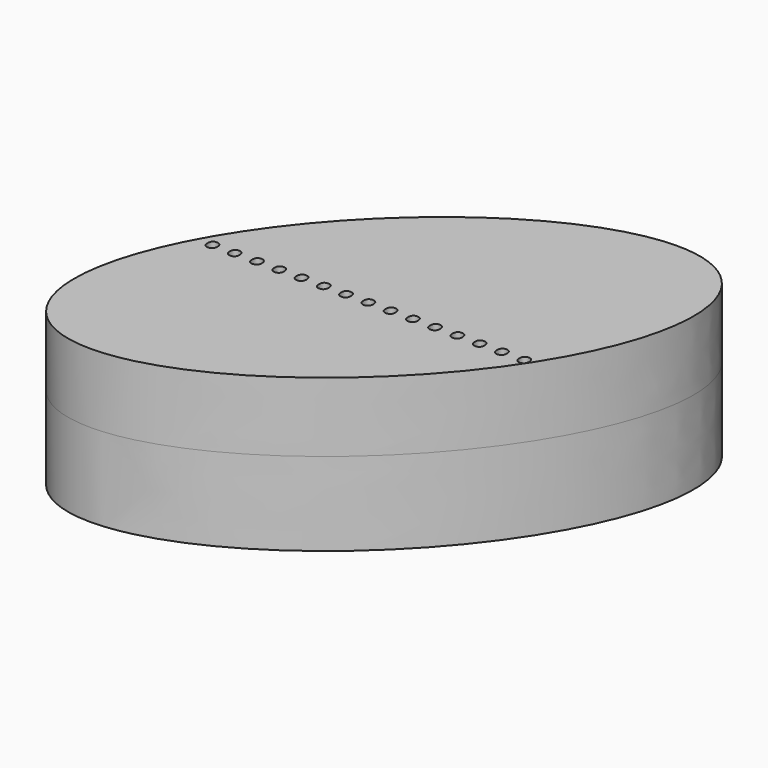
from build123d import *

# Parameters (mm, degrees)
F1_DEPTH = 37.338
F3_DEPTH = 25.4
F6_DEPTH = 30.48
F8_DEPTH = 25.4


with BuildPart() as f1:
    # F0 (on Top) → F1 (new body)
    with BuildSketch(Plane.XY):
        with BuildLine():
            add(Edge.make_bspline(
                [(-58.8609427214, -56.3732944429), (-55.8078593371, -59.5611046992), (30.9570130528, 26.5927420933), (117.7218854427, 112.7465888858), (27.9039296686, 29.7805523496), (-61.9140261056, -53.1854841866), (-58.8609427214, -56.3732944429)],
                knots=[0, 0, 0, 2.0943951024, 2.0943951024, 4.1887902048, 4.1887902048, 6.2831853072, 6.2831853072, 6.2831853072], degree=2, weights=[1, 0.5, 1, 0.5, 1, 0.5, 1]))
        make_face()
    extrude(amount=F1_DEPTH)

    # F2 (on Right) → F3 (join)
    with BuildSketch(Plane.YZ):
        with BuildLine():
            add(Edge.make_bspline(
                [(54.3760545552, 30.9824198484), (34.7760385901, 65.3816547247), (-36.9880352601, 1.7084075139), (-108.7521091104, -61.9648396969), (-17.388019295, -32.6908273623), (73.9760705203, -3.4168150278), (54.3760545552, 30.9824198484)],
                knots=[0, 0, 0, 2.0943951024, 2.0943951024, 4.1887902048, 4.1887902048, 6.2831853072, 6.2831853072, 6.2831853072], degree=2, weights=[1, 0.5, 1, 0.5, 1, 0.5, 1]))
        make_face()
    extrude(amount=-F3_DEPTH)


with BuildPart() as f6:
    # F5 (on Top) → F6 (new body)
    with BuildSketch(Plane.XY):
        with BuildLine():
            add(Edge.make_bspline(
                [(-68.0589303374, -69.3077221513), (-7.824960275, -128.4563919557), (64.1464501999, 5.0795261734), (136.1178606749, 138.6154443026), (3.9124801375, 64.2281959779), (-128.2929003998, -10.1590523469), (-68.0589303374, -69.3077221513)],
                knots=[0, 0, 0, 2.0943951024, 2.0943951024, 4.1887902048, 4.1887902048, 6.2831853072, 6.2831853072, 6.2831853072], degree=2, weights=[1, 0.5, 1, 0.5, 1, 0.5, 1]))
        make_face()
    extrude(amount=F6_DEPTH)

    # F7 (on face) → F8 (join)
    with BuildSketch(Plane.XY.offset(30.48)):
        with BuildLine():
            add(Edge.make_bspline(
                [(-68.0589303374, -69.3077221513), (-7.824960275, -128.4563919557), (64.1464501999, 5.0795261734), (136.1178606749, 138.6154443026), (3.9124801375, 64.2281959779), (-128.2929003998, -10.1590523469), (-68.0589303374, -69.3077221513)],
                knots=[0, 0, 0, 2.0943951024, 2.0943951024, 4.1887902048, 4.1887902048, 6.2831853072, 6.2831853072, 6.2831853072], degree=2, weights=[1, 0.5, 1, 0.5, 1, 0.5, 1]))
        make_face()
        with BuildLine():
            add(Edge.make_bspline(
                [(-59.8730209301, -6.8324282802), (-60.3733400324, -6.3608356334), (-60.3733400324, -5.283593547)],
                knots=[0, 0, 0, 1, 1, 1], degree=2))
            add(Edge.make_bspline(
                [(-60.3733400324, -5.283593547), (-60.3733400324, -4.2781675996), (-59.9161106135, -3.7634852694)],
                knots=[0, 0, 0, 1, 1, 1], degree=2))
            add(Edge.make_bspline(
                [(-59.9161106135, -3.7634852694), (-59.4588811946, -3.2488029392), (-58.6066630106, -3.2488029392)],
                knots=[0, 0, 0, 1, 1, 1], degree=2))
            add(Edge.make_bspline(
                [(-58.6066630106, -3.2488029392), (-57.7400815988, -3.2488029392), (-57.2541257243, -3.7634852694)],
                knots=[0, 0, 0, 1, 1, 1], degree=2))
            add(Edge.make_bspline(
                [(-57.2541257243, -3.7634852694), (-56.7681698497, -4.2781675996), (-56.7681698497, -5.283593547)],
                knots=[0, 0, 0, 1, 1, 1], degree=2))
            add(Edge.make_bspline(
                [(-56.7681698497, -5.283593547), (-56.7681698497, -6.2555052961), (-57.2613073382, -6.7797631115)],
                knots=[0, 0, 0, 1, 1, 1], degree=2))
            add(Edge.make_bspline(
                [(-57.2613073382, -6.7797631115), (-57.7544448267, -7.3040209269), (-58.6066630106, -7.3040209269)],
                knots=[0, 0, 0, 1, 1, 1], degree=2))
            add(Edge.make_bspline(
                [(-58.6066630106, -7.3040209269), (-59.3727018277, -7.3040209269), (-59.8730209301, -6.8324282802)],
                knots=[0, 0, 0, 1, 1, 1], degree=2))
        make_face(mode=Mode.SUBTRACT)
        with BuildLine():
            add(Edge.make_bspline(
                [(-51.7194952711, -6.8324282802), (-52.2198143735, -6.3608356334), (-52.2198143735, -5.283593547)],
                knots=[0, 0, 0, 1, 1, 1], degree=2))
            add(Edge.make_bspline(
                [(-52.2198143735, -5.283593547), (-52.2198143735, -4.2781675996), (-51.7625849546, -3.7634852694)],
                knots=[0, 0, 0, 1, 1, 1], degree=2))
            add(Edge.make_bspline(
                [(-51.7625849546, -3.7634852694), (-51.3053555357, -3.2488029392), (-50.4531373517, -3.2488029392)],
                knots=[0, 0, 0, 1, 1, 1], degree=2))
            add(Edge.make_bspline(
                [(-50.4531373517, -3.2488029392), (-49.5865559399, -3.2488029392), (-49.1006000654, -3.7634852694)],
                knots=[0, 0, 0, 1, 1, 1], degree=2))
            add(Edge.make_bspline(
                [(-49.1006000654, -3.7634852694), (-48.6146441908, -4.2781675996), (-48.6146441908, -5.283593547)],
                knots=[0, 0, 0, 1, 1, 1], degree=2))
            add(Edge.make_bspline(
                [(-48.6146441908, -5.283593547), (-48.6146441908, -6.2555052961), (-49.1077816793, -6.7797631115)],
                knots=[0, 0, 0, 1, 1, 1], degree=2))
            add(Edge.make_bspline(
                [(-49.1077816793, -6.7797631115), (-49.6009191678, -7.3040209269), (-50.4531373517, -7.3040209269)],
                knots=[0, 0, 0, 1, 1, 1], degree=2))
            add(Edge.make_bspline(
                [(-50.4531373517, -7.3040209269), (-51.2191761688, -7.3040209269), (-51.7194952711, -6.8324282802)],
                knots=[0, 0, 0, 1, 1, 1], degree=2))
        make_face(mode=Mode.SUBTRACT)
        with BuildLine():
            add(Edge.make_bspline(
                [(-43.5659696122, -6.8324282802), (-44.0662887146, -6.3608356334), (-44.0662887146, -5.283593547)],
                knots=[0, 0, 0, 1, 1, 1], degree=2))
            add(Edge.make_bspline(
                [(-44.0662887146, -5.283593547), (-44.0662887146, -4.2781675996), (-43.6090592957, -3.7634852694)],
                knots=[0, 0, 0, 1, 1, 1], degree=2))
            add(Edge.make_bspline(
                [(-43.6090592957, -3.7634852694), (-43.1518298768, -3.2488029392), (-42.2996116928, -3.2488029392)],
                knots=[0, 0, 0, 1, 1, 1], degree=2))
            add(Edge.make_bspline(
                [(-42.2996116928, -3.2488029392), (-41.433030281, -3.2488029392), (-40.9470744065, -3.7634852694)],
                knots=[0, 0, 0, 1, 1, 1], degree=2))
            add(Edge.make_bspline(
                [(-40.9470744065, -3.7634852694), (-40.4611185319, -4.2781675996), (-40.4611185319, -5.283593547)],
                knots=[0, 0, 0, 1, 1, 1], degree=2))
            add(Edge.make_bspline(
                [(-40.4611185319, -5.283593547), (-40.4611185319, -6.2555052961), (-40.9542560204, -6.7797631115)],
                knots=[0, 0, 0, 1, 1, 1], degree=2))
            add(Edge.make_bspline(
                [(-40.9542560204, -6.7797631115), (-41.4473935089, -7.3040209269), (-42.2996116928, -7.3040209269)],
                knots=[0, 0, 0, 1, 1, 1], degree=2))
            add(Edge.make_bspline(
                [(-42.2996116928, -7.3040209269), (-43.0656505099, -7.3040209269), (-43.5659696122, -6.8324282802)],
                knots=[0, 0, 0, 1, 1, 1], degree=2))
        make_face(mode=Mode.SUBTRACT)
        with BuildLine():
            add(Edge.make_bspline(
                [(-35.4124439533, -6.8324282802), (-35.9127630557, -6.3608356334), (-35.9127630557, -5.283593547)],
                knots=[0, 0, 0, 1, 1, 1], degree=2))
            add(Edge.make_bspline(
                [(-35.9127630557, -5.283593547), (-35.9127630557, -4.2781675996), (-35.4555336368, -3.7634852694)],
                knots=[0, 0, 0, 1, 1, 1], degree=2))
            add(Edge.make_bspline(
                [(-35.4555336368, -3.7634852694), (-34.9983042179, -3.2488029392), (-34.1460860339, -3.2488029392)],
                knots=[0, 0, 0, 1, 1, 1], degree=2))
            add(Edge.make_bspline(
                [(-34.1460860339, -3.2488029392), (-33.2795046221, -3.2488029392), (-32.7935487476, -3.7634852694)],
                knots=[0, 0, 0, 1, 1, 1], degree=2))
            add(Edge.make_bspline(
                [(-32.7935487476, -3.7634852694), (-32.307592873, -4.2781675996), (-32.307592873, -5.283593547)],
                knots=[0, 0, 0, 1, 1, 1], degree=2))
            add(Edge.make_bspline(
                [(-32.307592873, -5.283593547), (-32.307592873, -6.2555052961), (-32.8007303615, -6.7797631115)],
                knots=[0, 0, 0, 1, 1, 1], degree=2))
            add(Edge.make_bspline(
                [(-32.8007303615, -6.7797631115), (-33.29386785, -7.3040209269), (-34.1460860339, -7.3040209269)],
                knots=[0, 0, 0, 1, 1, 1], degree=2))
            add(Edge.make_bspline(
                [(-34.1460860339, -7.3040209269), (-34.912124851, -7.3040209269), (-35.4124439533, -6.8324282802)],
                knots=[0, 0, 0, 1, 1, 1], degree=2))
        make_face(mode=Mode.SUBTRACT)
        with BuildLine():
            add(Edge.make_bspline(
                [(-27.2589182944, -6.8324282802), (-27.7592373968, -6.3608356334), (-27.7592373968, -5.283593547)],
                knots=[0, 0, 0, 1, 1, 1], degree=2))
            add(Edge.make_bspline(
                [(-27.7592373968, -5.283593547), (-27.7592373968, -4.2781675996), (-27.3020079779, -3.7634852694)],
                knots=[0, 0, 0, 1, 1, 1], degree=2))
            add(Edge.make_bspline(
                [(-27.3020079779, -3.7634852694), (-26.844778559, -3.2488029392), (-25.992560375, -3.2488029392)],
                knots=[0, 0, 0, 1, 1, 1], degree=2))
            add(Edge.make_bspline(
                [(-25.992560375, -3.2488029392), (-25.1259789632, -3.2488029392), (-24.6400230887, -3.7634852694)],
                knots=[0, 0, 0, 1, 1, 1], degree=2))
            add(Edge.make_bspline(
                [(-24.6400230887, -3.7634852694), (-24.1540672141, -4.2781675996), (-24.1540672141, -5.283593547)],
                knots=[0, 0, 0, 1, 1, 1], degree=2))
            add(Edge.make_bspline(
                [(-24.1540672141, -5.283593547), (-24.1540672141, -6.2555052961), (-24.6472047026, -6.7797631115)],
                knots=[0, 0, 0, 1, 1, 1], degree=2))
            add(Edge.make_bspline(
                [(-24.6472047026, -6.7797631115), (-25.1403421911, -7.3040209269), (-25.992560375, -7.3040209269)],
                knots=[0, 0, 0, 1, 1, 1], degree=2))
            add(Edge.make_bspline(
                [(-25.992560375, -7.3040209269), (-26.7585991921, -7.3040209269), (-27.2589182944, -6.8324282802)],
                knots=[0, 0, 0, 1, 1, 1], degree=2))
        make_face(mode=Mode.SUBTRACT)
        with BuildLine():
            add(Edge.make_bspline(
                [(-19.1053926355, -6.8324282802), (-19.6057117379, -6.3608356334), (-19.6057117379, -5.283593547)],
                knots=[0, 0, 0, 1, 1, 1], degree=2))
            add(Edge.make_bspline(
                [(-19.6057117379, -5.283593547), (-19.6057117379, -4.2781675996), (-19.148482319, -3.7634852694)],
                knots=[0, 0, 0, 1, 1, 1], degree=2))
            add(Edge.make_bspline(
                [(-19.148482319, -3.7634852694), (-18.6912529001, -3.2488029392), (-17.8390347161, -3.2488029392)],
                knots=[0, 0, 0, 1, 1, 1], degree=2))
            add(Edge.make_bspline(
                [(-17.8390347161, -3.2488029392), (-16.9724533043, -3.2488029392), (-16.4864974298, -3.7634852694)],
                knots=[0, 0, 0, 1, 1, 1], degree=2))
            add(Edge.make_bspline(
                [(-16.4864974298, -3.7634852694), (-16.0005415552, -4.2781675996), (-16.0005415552, -5.283593547)],
                knots=[0, 0, 0, 1, 1, 1], degree=2))
            add(Edge.make_bspline(
                [(-16.0005415552, -5.283593547), (-16.0005415552, -6.2555052961), (-16.4936790437, -6.7797631115)],
                knots=[0, 0, 0, 1, 1, 1], degree=2))
            add(Edge.make_bspline(
                [(-16.4936790437, -6.7797631115), (-16.9868165322, -7.3040209269), (-17.8390347161, -7.3040209269)],
                knots=[0, 0, 0, 1, 1, 1], degree=2))
            add(Edge.make_bspline(
                [(-17.8390347161, -7.3040209269), (-18.6050735332, -7.3040209269), (-19.1053926355, -6.8324282802)],
                knots=[0, 0, 0, 1, 1, 1], degree=2))
        make_face(mode=Mode.SUBTRACT)
        with BuildLine():
            add(Edge.make_bspline(
                [(-10.9518669766, -6.8324282802), (-11.452186079, -6.3608356334), (-11.452186079, -5.283593547)],
                knots=[0, 0, 0, 1, 1, 1], degree=2))
            add(Edge.make_bspline(
                [(-11.452186079, -5.283593547), (-11.452186079, -4.2781675996), (-10.9949566601, -3.7634852694)],
                knots=[0, 0, 0, 1, 1, 1], degree=2))
            add(Edge.make_bspline(
                [(-10.9949566601, -3.7634852694), (-10.5377272412, -3.2488029392), (-9.6855090572, -3.2488029392)],
                knots=[0, 0, 0, 1, 1, 1], degree=2))
            add(Edge.make_bspline(
                [(-9.6855090572, -3.2488029392), (-8.8189276454, -3.2488029392), (-8.3329717709, -3.7634852694)],
                knots=[0, 0, 0, 1, 1, 1], degree=2))
            add(Edge.make_bspline(
                [(-8.3329717709, -3.7634852694), (-7.8470158963, -4.2781675996), (-7.8470158963, -5.283593547)],
                knots=[0, 0, 0, 1, 1, 1], degree=2))
            add(Edge.make_bspline(
                [(-7.8470158963, -5.283593547), (-7.8470158963, -6.2555052961), (-8.3401533848, -6.7797631115)],
                knots=[0, 0, 0, 1, 1, 1], degree=2))
            add(Edge.make_bspline(
                [(-8.3401533848, -6.7797631115), (-8.8332908733, -7.3040209269), (-9.6855090572, -7.3040209269)],
                knots=[0, 0, 0, 1, 1, 1], degree=2))
            add(Edge.make_bspline(
                [(-9.6855090572, -7.3040209269), (-10.4515478743, -7.3040209269), (-10.9518669766, -6.8324282802)],
                knots=[0, 0, 0, 1, 1, 1], degree=2))
        make_face(mode=Mode.SUBTRACT)
        with BuildLine():
            add(Edge.make_bspline(
                [(-2.7983413177, -6.8324282802), (-3.2986604201, -6.3608356334), (-3.2986604201, -5.283593547)],
                knots=[0, 0, 0, 1, 1, 1], degree=2))
            add(Edge.make_bspline(
                [(-3.2986604201, -5.283593547), (-3.2986604201, -4.2781675996), (-2.8414310012, -3.7634852694)],
                knots=[0, 0, 0, 1, 1, 1], degree=2))
            add(Edge.make_bspline(
                [(-2.8414310012, -3.7634852694), (-2.3842015823, -3.2488029392), (-1.5319833983, -3.2488029392)],
                knots=[0, 0, 0, 1, 1, 1], degree=2))
            add(Edge.make_bspline(
                [(-1.5319833983, -3.2488029392), (-0.6654019865, -3.2488029392), (-0.179446112, -3.7634852694)],
                knots=[0, 0, 0, 1, 1, 1], degree=2))
            add(Edge.make_bspline(
                [(-0.179446112, -3.7634852694), (0.3065097626, -4.2781675996), (0.3065097626, -5.283593547)],
                knots=[0, 0, 0, 1, 1, 1], degree=2))
            add(Edge.make_bspline(
                [(0.3065097626, -5.283593547), (0.3065097626, -6.2555052961), (-0.1866277259, -6.7797631115)],
                knots=[0, 0, 0, 1, 1, 1], degree=2))
            add(Edge.make_bspline(
                [(-0.1866277259, -6.7797631115), (-0.6797652143, -7.3040209269), (-1.5319833983, -7.3040209269)],
                knots=[0, 0, 0, 1, 1, 1], degree=2))
            add(Edge.make_bspline(
                [(-1.5319833983, -7.3040209269), (-2.2980222154, -7.3040209269), (-2.7983413177, -6.8324282802)],
                knots=[0, 0, 0, 1, 1, 1], degree=2))
        make_face(mode=Mode.SUBTRACT)
        with BuildLine():
            add(Edge.make_bspline(
                [(5.3551843412, -6.8324282802), (4.8548652388, -6.3608356334), (4.8548652388, -5.283593547)],
                knots=[0, 0, 0, 1, 1, 1], degree=2))
            add(Edge.make_bspline(
                [(4.8548652388, -5.283593547), (4.8548652388, -4.2781675996), (5.3120946577, -3.7634852694)],
                knots=[0, 0, 0, 1, 1, 1], degree=2))
            add(Edge.make_bspline(
                [(5.3120946577, -3.7634852694), (5.7693240766, -3.2488029392), (6.6215422606, -3.2488029392)],
                knots=[0, 0, 0, 1, 1, 1], degree=2))
            add(Edge.make_bspline(
                [(6.6215422606, -3.2488029392), (7.4881236724, -3.2488029392), (7.9740795469, -3.7634852694)],
                knots=[0, 0, 0, 1, 1, 1], degree=2))
            add(Edge.make_bspline(
                [(7.9740795469, -3.7634852694), (8.4600354215, -4.2781675996), (8.4600354215, -5.283593547)],
                knots=[0, 0, 0, 1, 1, 1], degree=2))
            add(Edge.make_bspline(
                [(8.4600354215, -5.283593547), (8.4600354215, -6.2555052961), (7.966897933, -6.7797631115)],
                knots=[0, 0, 0, 1, 1, 1], degree=2))
            add(Edge.make_bspline(
                [(7.966897933, -6.7797631115), (7.4737604446, -7.3040209269), (6.6215422606, -7.3040209269)],
                knots=[0, 0, 0, 1, 1, 1], degree=2))
            add(Edge.make_bspline(
                [(6.6215422606, -7.3040209269), (5.8555034436, -7.3040209269), (5.3551843412, -6.8324282802)],
                knots=[0, 0, 0, 1, 1, 1], degree=2))
        make_face(mode=Mode.SUBTRACT)
        with BuildLine():
            add(Edge.make_bspline(
                [(13.5087100001, -6.8324282802), (13.0083908977, -6.3608356334), (13.0083908977, -5.283593547)],
                knots=[0, 0, 0, 1, 1, 1], degree=2))
            add(Edge.make_bspline(
                [(13.0083908977, -5.283593547), (13.0083908977, -4.2781675996), (13.4656203166, -3.7634852694)],
                knots=[0, 0, 0, 1, 1, 1], degree=2))
            add(Edge.make_bspline(
                [(13.4656203166, -3.7634852694), (13.9228497355, -3.2488029392), (14.7750679195, -3.2488029392)],
                knots=[0, 0, 0, 1, 1, 1], degree=2))
            add(Edge.make_bspline(
                [(14.7750679195, -3.2488029392), (15.6416493313, -3.2488029392), (16.1276052058, -3.7634852694)],
                knots=[0, 0, 0, 1, 1, 1], degree=2))
            add(Edge.make_bspline(
                [(16.1276052058, -3.7634852694), (16.6135610804, -4.2781675996), (16.6135610804, -5.283593547)],
                knots=[0, 0, 0, 1, 1, 1], degree=2))
            add(Edge.make_bspline(
                [(16.6135610804, -5.283593547), (16.6135610804, -6.2555052961), (16.1204235919, -6.7797631115)],
                knots=[0, 0, 0, 1, 1, 1], degree=2))
            add(Edge.make_bspline(
                [(16.1204235919, -6.7797631115), (15.6272861035, -7.3040209269), (14.7750679195, -7.3040209269)],
                knots=[0, 0, 0, 1, 1, 1], degree=2))
            add(Edge.make_bspline(
                [(14.7750679195, -7.3040209269), (14.0090291025, -7.3040209269), (13.5087100001, -6.8324282802)],
                knots=[0, 0, 0, 1, 1, 1], degree=2))
        make_face(mode=Mode.SUBTRACT)
        with BuildLine():
            add(Edge.make_bspline(
                [(21.662235659, -6.8324282802), (21.1619165566, -6.3608356334), (21.1619165566, -5.283593547)],
                knots=[0, 0, 0, 1, 1, 1], degree=2))
            add(Edge.make_bspline(
                [(21.1619165566, -5.283593547), (21.1619165566, -4.2781675996), (21.6191459755, -3.7634852694)],
                knots=[0, 0, 0, 1, 1, 1], degree=2))
            add(Edge.make_bspline(
                [(21.6191459755, -3.7634852694), (22.0763753944, -3.2488029392), (22.9285935784, -3.2488029392)],
                knots=[0, 0, 0, 1, 1, 1], degree=2))
            add(Edge.make_bspline(
                [(22.9285935784, -3.2488029392), (23.7951749902, -3.2488029392), (24.2811308647, -3.7634852694)],
                knots=[0, 0, 0, 1, 1, 1], degree=2))
            add(Edge.make_bspline(
                [(24.2811308647, -3.7634852694), (24.7670867393, -4.2781675996), (24.7670867393, -5.283593547)],
                knots=[0, 0, 0, 1, 1, 1], degree=2))
            add(Edge.make_bspline(
                [(24.7670867393, -5.283593547), (24.7670867393, -6.2555052961), (24.2739492508, -6.7797631115)],
                knots=[0, 0, 0, 1, 1, 1], degree=2))
            add(Edge.make_bspline(
                [(24.2739492508, -6.7797631115), (23.7808117624, -7.3040209269), (22.9285935784, -7.3040209269)],
                knots=[0, 0, 0, 1, 1, 1], degree=2))
            add(Edge.make_bspline(
                [(22.9285935784, -7.3040209269), (22.1625547614, -7.3040209269), (21.662235659, -6.8324282802)],
                knots=[0, 0, 0, 1, 1, 1], degree=2))
        make_face(mode=Mode.SUBTRACT)
        with BuildLine():
            add(Edge.make_bspline(
                [(29.8157613179, -6.8324282802), (29.3154422155, -6.3608356334), (29.3154422155, -5.283593547)],
                knots=[0, 0, 0, 1, 1, 1], degree=2))
            add(Edge.make_bspline(
                [(29.3154422155, -5.283593547), (29.3154422155, -4.2781675996), (29.7726716344, -3.7634852694)],
                knots=[0, 0, 0, 1, 1, 1], degree=2))
            add(Edge.make_bspline(
                [(29.7726716344, -3.7634852694), (30.2299010533, -3.2488029392), (31.0821192373, -3.2488029392)],
                knots=[0, 0, 0, 1, 1, 1], degree=2))
            add(Edge.make_bspline(
                [(31.0821192373, -3.2488029392), (31.9487006491, -3.2488029392), (32.4346565236, -3.7634852694)],
                knots=[0, 0, 0, 1, 1, 1], degree=2))
            add(Edge.make_bspline(
                [(32.4346565236, -3.7634852694), (32.9206123982, -4.2781675996), (32.9206123982, -5.283593547)],
                knots=[0, 0, 0, 1, 1, 1], degree=2))
            add(Edge.make_bspline(
                [(32.9206123982, -5.283593547), (32.9206123982, -6.2555052961), (32.4274749097, -6.7797631115)],
                knots=[0, 0, 0, 1, 1, 1], degree=2))
            add(Edge.make_bspline(
                [(32.4274749097, -6.7797631115), (31.9343374213, -7.3040209269), (31.0821192373, -7.3040209269)],
                knots=[0, 0, 0, 1, 1, 1], degree=2))
            add(Edge.make_bspline(
                [(31.0821192373, -7.3040209269), (30.3160804203, -7.3040209269), (29.8157613179, -6.8324282802)],
                knots=[0, 0, 0, 1, 1, 1], degree=2))
        make_face(mode=Mode.SUBTRACT)
        with BuildLine():
            add(Edge.make_bspline(
                [(37.9692869768, -6.8324282802), (37.4689678744, -6.3608356334), (37.4689678744, -5.283593547)],
                knots=[0, 0, 0, 1, 1, 1], degree=2))
            add(Edge.make_bspline(
                [(37.4689678744, -5.283593547), (37.4689678744, -4.2781675996), (37.9261972933, -3.7634852694)],
                knots=[0, 0, 0, 1, 1, 1], degree=2))
            add(Edge.make_bspline(
                [(37.9261972933, -3.7634852694), (38.3834267122, -3.2488029392), (39.2356448962, -3.2488029392)],
                knots=[0, 0, 0, 1, 1, 1], degree=2))
            add(Edge.make_bspline(
                [(39.2356448962, -3.2488029392), (40.102226308, -3.2488029392), (40.5881821825, -3.7634852694)],
                knots=[0, 0, 0, 1, 1, 1], degree=2))
            add(Edge.make_bspline(
                [(40.5881821825, -3.7634852694), (41.0741380571, -4.2781675996), (41.0741380571, -5.283593547)],
                knots=[0, 0, 0, 1, 1, 1], degree=2))
            add(Edge.make_bspline(
                [(41.0741380571, -5.283593547), (41.0741380571, -6.2555052961), (40.5810005686, -6.7797631115)],
                knots=[0, 0, 0, 1, 1, 1], degree=2))
            add(Edge.make_bspline(
                [(40.5810005686, -6.7797631115), (40.0878630802, -7.3040209269), (39.2356448962, -7.3040209269)],
                knots=[0, 0, 0, 1, 1, 1], degree=2))
            add(Edge.make_bspline(
                [(39.2356448962, -7.3040209269), (38.4696060792, -7.3040209269), (37.9692869768, -6.8324282802)],
                knots=[0, 0, 0, 1, 1, 1], degree=2))
        make_face(mode=Mode.SUBTRACT)
        with BuildLine():
            add(Edge.make_bspline(
                [(46.1228126357, -6.8324282802), (45.6224935333, -6.3608356334), (45.6224935333, -5.283593547)],
                knots=[0, 0, 0, 1, 1, 1], degree=2))
            add(Edge.make_bspline(
                [(45.6224935333, -5.283593547), (45.6224935333, -4.2781675996), (46.0797229522, -3.7634852694)],
                knots=[0, 0, 0, 1, 1, 1], degree=2))
            add(Edge.make_bspline(
                [(46.0797229522, -3.7634852694), (46.5369523711, -3.2488029392), (47.3891705551, -3.2488029392)],
                knots=[0, 0, 0, 1, 1, 1], degree=2))
            add(Edge.make_bspline(
                [(47.3891705551, -3.2488029392), (48.2557519669, -3.2488029392), (48.7417078414, -3.7634852694)],
                knots=[0, 0, 0, 1, 1, 1], degree=2))
            add(Edge.make_bspline(
                [(48.7417078414, -3.7634852694), (49.227663716, -4.2781675996), (49.227663716, -5.283593547)],
                knots=[0, 0, 0, 1, 1, 1], degree=2))
            add(Edge.make_bspline(
                [(49.227663716, -5.283593547), (49.227663716, -6.2555052961), (48.7345262275, -6.7797631115)],
                knots=[0, 0, 0, 1, 1, 1], degree=2))
            add(Edge.make_bspline(
                [(48.7345262275, -6.7797631115), (48.2413887391, -7.3040209269), (47.3891705551, -7.3040209269)],
                knots=[0, 0, 0, 1, 1, 1], degree=2))
            add(Edge.make_bspline(
                [(47.3891705551, -7.3040209269), (46.6231317381, -7.3040209269), (46.1228126357, -6.8324282802)],
                knots=[0, 0, 0, 1, 1, 1], degree=2))
        make_face(mode=Mode.SUBTRACT)
        with BuildLine():
            add(Edge.make_bspline(
                [(54.2763382946, -6.8324282802), (53.7760191922, -6.3608356334), (53.7760191922, -5.283593547)],
                knots=[0, 0, 0, 1, 1, 1], degree=2))
            add(Edge.make_bspline(
                [(53.7760191922, -5.283593547), (53.7760191922, -4.2781675996), (54.2332486111, -3.7634852694)],
                knots=[0, 0, 0, 1, 1, 1], degree=2))
            add(Edge.make_bspline(
                [(54.2332486111, -3.7634852694), (54.69047803, -3.2488029392), (55.542696214, -3.2488029392)],
                knots=[0, 0, 0, 1, 1, 1], degree=2))
            add(Edge.make_bspline(
                [(55.542696214, -3.2488029392), (56.4092776258, -3.2488029392), (56.8952335004, -3.7634852694)],
                knots=[0, 0, 0, 1, 1, 1], degree=2))
            add(Edge.make_bspline(
                [(56.8952335004, -3.7634852694), (57.3811893749, -4.2781675996), (57.3811893749, -5.283593547)],
                knots=[0, 0, 0, 1, 1, 1], degree=2))
            add(Edge.make_bspline(
                [(57.3811893749, -5.283593547), (57.3811893749, -6.2555052961), (56.8880518864, -6.7797631115)],
                knots=[0, 0, 0, 1, 1, 1], degree=2))
            add(Edge.make_bspline(
                [(56.8880518864, -6.7797631115), (56.394914398, -7.3040209269), (55.542696214, -7.3040209269)],
                knots=[0, 0, 0, 1, 1, 1], degree=2))
            add(Edge.make_bspline(
                [(55.542696214, -7.3040209269), (54.776657397, -7.3040209269), (54.2763382946, -6.8324282802)],
                knots=[0, 0, 0, 1, 1, 1], degree=2))
        make_face(mode=Mode.SUBTRACT)
    extrude(amount=F8_DEPTH)


solid = f6.part
